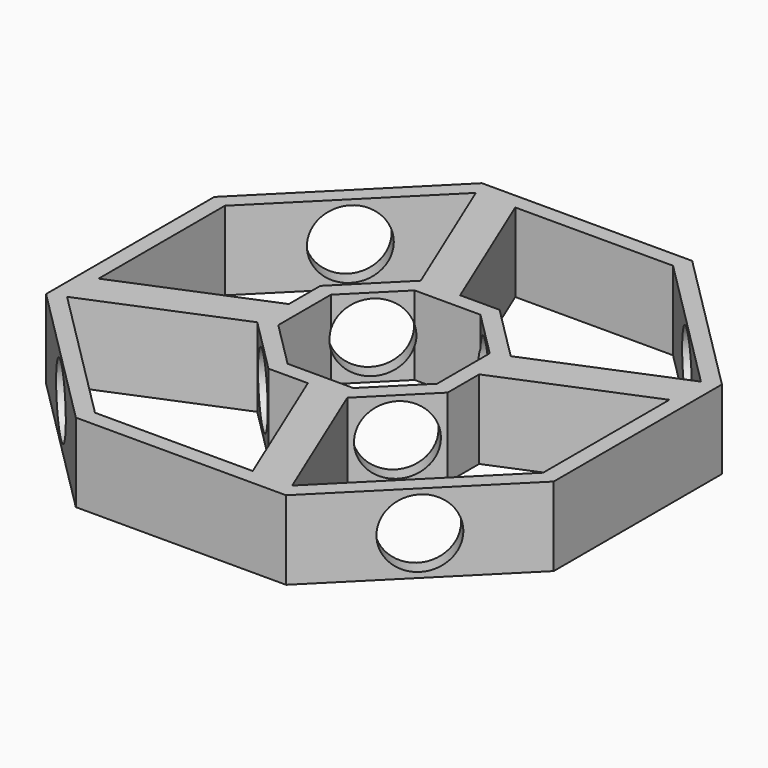
from build123d import *

# Parameters (mm, degrees)
F1_DEPTH = 15
F2_R     = 6.5
F3_DEPTH = 116.569542
F4_R     = 6.5
F5_DEPTH = 116.569542


with BuildPart() as f1:
    # F0 (on Top) → F1 (new body)
    with BuildSketch(Plane.XY):
        Polygon((-48.284271, 20), (-48.284271, -20), (-20, -48.284271), (20, -48.284271), (48.284271, -20), (48.284271, 20), (20, 48.284271), (-20, 48.284271), align=None)
        Polygon((-18.757359, -45.284271), (-45.284271, -18.757359), (-45.284271, -11.257359), (-45.284271, 18.757359), (-18.757359, 45.284271), (-11.257359, 45.284271), (18.757359, 45.284271), (45.284271, 18.757359), (45.284271, 11.257359), (45.284271, -18.757359), (18.757359, -45.284271), (11.257359, -45.284271), align=None, mode=Mode.SUBTRACT)
        Polygon((-18.106602, 0), (-18.106602, -7.5), (-7.5, -18.106602), (0, -18.106602), (7.5, -18.106602), (18.106602, -7.5), (18.106602, 0), (18.106602, 7.5), (7.5, 18.106602), (0, 18.106602), (-7.5, 18.106602), (-18.106602, 7.5), align=None)
        Polygon((-6.257359, -15.106602), (-15.106602, -6.257359), (-15.106602, 6.257359), (-6.257359, 15.106602), (6.257359, 15.106602), (15.106602, 6.257359), (15.106602, -6.257359), (6.257359, -15.106602), align=None, mode=Mode.SUBTRACT)
        Polygon((-45.284271, -11.257359), (-45.284271, -18.757359), (-18.106602, -7.5), (-18.106602, 0), align=None)
        Polygon((-11.257359, 45.284271), (-18.757359, 45.284271), (-7.5, 18.106602), (0, 18.106602), align=None)
        Polygon((18.106602, 0), (45.284271, 11.257359), (45.284271, 18.757359), (18.106602, 7.5), align=None)
        Polygon((0, -18.106602), (11.257359, -45.284271), (18.757359, -45.284271), (7.5, -18.106602), align=None)
    extrude(amount=F1_DEPTH)

    # F2 (on face) → F3 (cut, through all)
    with BuildSketch(Plane(origin=(34.142136, -34.142136, 0), x_dir=(0.707107, 0.707107, 0), z_dir=(0.707107, -0.707107, 0))):
        with Locations((0, 7.5)):
            Circle(F2_R)
    extrude(amount=-F3_DEPTH, mode=Mode.SUBTRACT)

    # F4 (on face) → F5 (cut, through all)
    with BuildSketch(Plane(origin=(-34.142136, -34.142136, 0), x_dir=(0.707107, -0.707107, 0), z_dir=(-0.707107, -0.707107, 0))):
        with Locations((0, 7.5)):
            Circle(F4_R)
    extrude(amount=-F5_DEPTH, mode=Mode.SUBTRACT)


solid = f1.part
